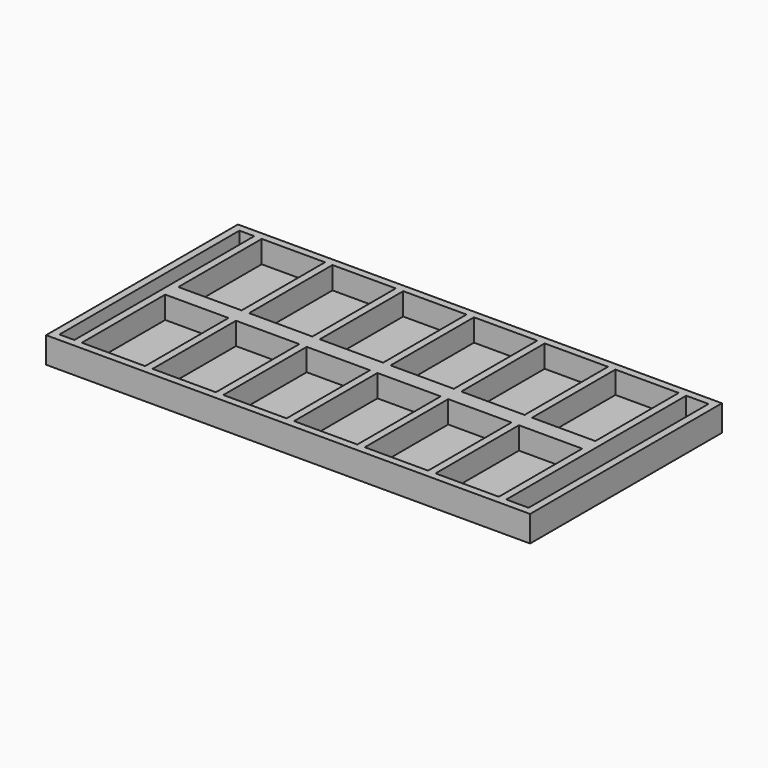
from build123d import *

# Parameters (mm, degrees)
F0_W      = 580
F0_H      = 322
F1_DEPTH  = 17.5
F2_W      = 85
F2_H      = 140
F3_DEPTH  = 25
F4_W      = 322
F4_H      = 35
F5_DEPTH  = 30
F6_W      = 20
F6_H      = 302
F7_DEPTH  = 35.001
F8_W      = 322
F8_H      = 35
F9_DEPTH  = 40
F10_W     = 30
F10_H     = 302
F11_DEPTH = 35.001
F13_W     = 630
F13_H     = 302
F14_DEPTH = 5


with BuildPart() as f1:
    # F0 (on Top) → F1 (new body, symmetric)
    with BuildSketch(Plane.XY):
        Rectangle(F0_W, F0_H)
    extrude(amount=F1_DEPTH, both=True)

    # F2 (on Top) → F3 (cut, symmetric)
    with BuildSketch(Plane.XY):
        with Locations((237.5, -81)):
            Rectangle(F2_W, F2_H)
        with Locations((142.5, -81)):
            Rectangle(F2_W, F2_H)
        with Locations((47.5, -81)):
            Rectangle(F2_W, F2_H)
        with Locations((-47.5, -81)):
            Rectangle(F2_W, F2_H)
        with Locations((-142.5, -81)):
            Rectangle(F2_W, F2_H)
        with Locations((142.5, 81)):
            Rectangle(F2_W, F2_H)
        with Locations((237.5, 81)):
            Rectangle(F2_W, F2_H)
        with Locations((47.5, 81)):
            Rectangle(F2_W, F2_H)
        with Locations((-142.5, 81)):
            Rectangle(F2_W, F2_H)
        with Locations((-47.5, 81)):
            Rectangle(F2_W, F2_H)
        with Locations((-237.5, 81)):
            Rectangle(F2_W, F2_H)
        with Locations((-237.5, -81)):
            Rectangle(F2_W, F2_H)
    extrude(amount=F3_DEPTH, both=True, mode=Mode.SUBTRACT)


with BuildPart() as f5:
    # F4 (on face) → F5 (new body)
    with BuildSketch(Plane(origin=(-290, 0, 0), x_dir=(0, -1, 0), z_dir=(-1, 0, 0))):
        Rectangle(F4_W, F4_H)
    extrude(amount=F5_DEPTH)

    # F6 (on face) → F7 (cut, through all)
    with BuildSketch(Plane(origin=(0, 0, -17.5), x_dir=(1, 0, 0), z_dir=(0, 0, -1))):
        with Locations((-300, 0)):
            Rectangle(F6_W, F6_H)
    extrude(amount=-F7_DEPTH, mode=Mode.SUBTRACT)


with BuildPart() as f9:
    # F8 (on face) → F9 (new body)
    with BuildSketch(Plane.YZ.offset(290)):
        Rectangle(F8_W, F8_H)
    extrude(amount=F9_DEPTH)

    # F10 (on face) → F11 (cut, through all)
    with BuildSketch(Plane(origin=(0, 0, -17.5), x_dir=(1, 0, 0), z_dir=(0, 0, -1))):
        with Locations((305, 0)):
            Rectangle(F10_W, F10_H)
    extrude(amount=-F11_DEPTH, mode=Mode.SUBTRACT)


with BuildPart() as f5_1:
    add(f5.part)

    # F12: union F1, F9
    add(f1.part)
    add(f9.part)

    # F13 (on face) → F14 (join)
    with BuildSketch(Plane(origin=(0, 0, -17.5), x_dir=(1, 0, 0), z_dir=(0, 0, -1))):
        with Locations((5, 0)):
            Rectangle(F13_W, F13_H)
    extrude(amount=-F14_DEPTH)


solid = f5_1.part
